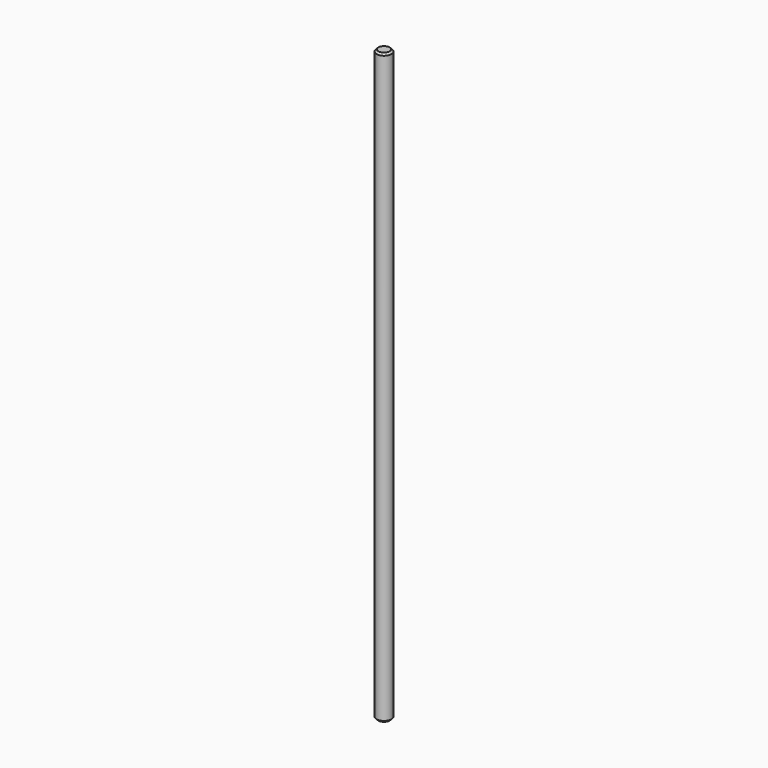
from build123d import *

# Parameters (mm, degrees)
F0_R     = 4
F1_DEPTH = 160
F2_SIZE  = 1


with BuildPart() as f1:
    # F0 (on Top) → F1 (new body, symmetric)
    with BuildSketch(Plane.XY):
        Circle(F0_R)
    extrude(amount=F1_DEPTH, both=True)

    # F2
    f2_edges = [f1.edges().sort_by_distance(p)[0] for p in [
        (-4, 0, 160),
        (-4, 0, -160),
    ]]
    chamfer(f2_edges, length=F2_SIZE)


solid = f1.part
